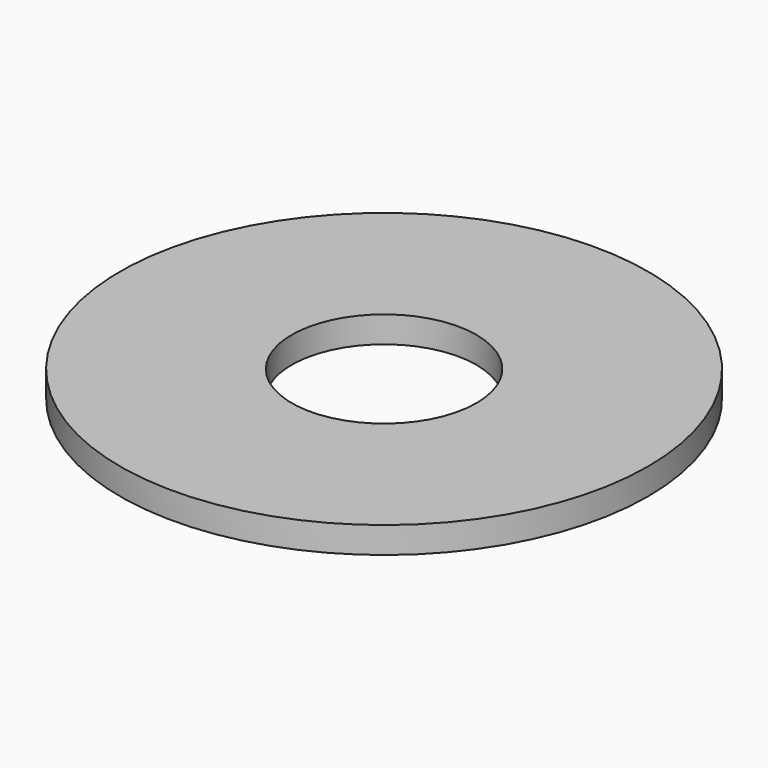
from build123d import *

# Parameters (mm, degrees)
CYLINDER008_R     = 1.75
CYLINDER008_DEPTH = 1.5
CYLINDER009_R     = 5
CYLINDER009_DEPTH = 0.5


with BuildPart() as obj1:
    # Cylinder008 → Cylinder008 (new body)
    with BuildSketch(Plane(origin=(-29.1, 53.1, 24.6), x_dir=(1, 0, 0), z_dir=(0, 0, 1))):
        Circle(CYLINDER008_R)
    extrude(amount=CYLINDER008_DEPTH)


with BuildPart() as arandela001:
    # Cylinder009 → Cylinder009 (new body)
    with BuildSketch(Plane(origin=(-29.1, 53.1, 25.2), x_dir=(1, 0, 0), z_dir=(0, 0, 1))):
        Circle(CYLINDER009_R)
    extrude(amount=CYLINDER009_DEPTH)

    # Cut004: cut obj1
    add(obj1.part, mode=Mode.SUBTRACT)


with BuildPart() as arandela001_1:
    # Cut004 placement: moved
    add(arandela001.part.moved(Location((15, 0, -5.7))))


solid = arandela001_1.part
